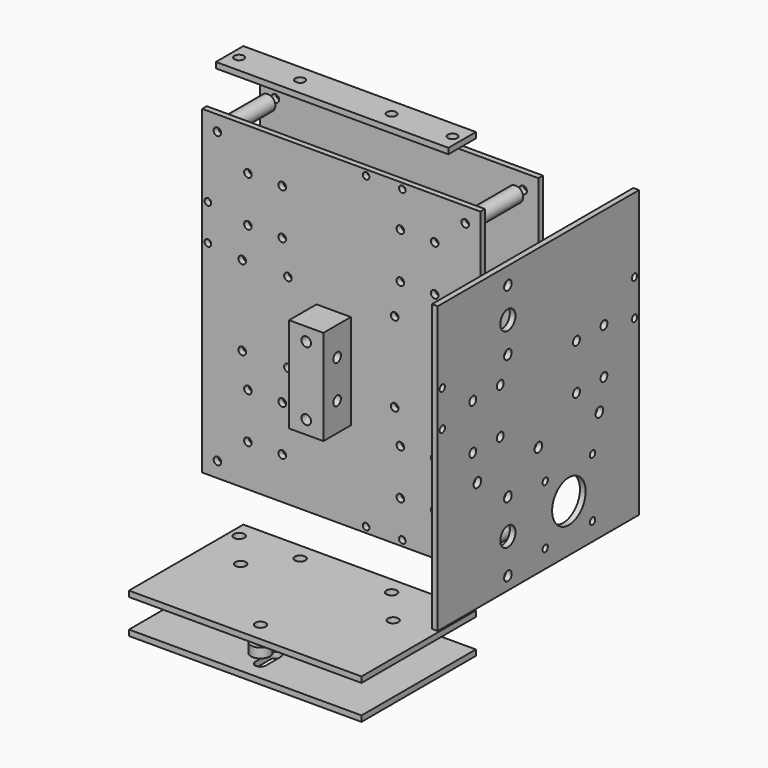
from build123d import *

# Parameters (mm, degrees)
F1_W      = 146
F1_H      = 168
F1_R      = 2
F1_R_2    = 1.75
F1_R_3    = 2.5
F2_DEPTH  = 3
F3_START  = 3
F3_DEPTH  = 18
F4_R      = 2.5
F5_DEPTH  = 86.001
F7_R      = 4
F7_R_2    = 2
F8_DEPTH  = 25
F10_W     = 146
F10_H     = 168
F10_R     = 2
F10_W_2   = 9
F10_H_2   = 20
F10_R_2   = 2.5
F10_R_3   = 1.75
F11_DEPTH = 3
F13_W     = 122
F13_H     = 18
F13_R     = 2.5
F14_DEPTH = 3
F16_W     = 122
F16_H     = 75
F16_R     = 2.75
F17_DEPTH = 3
F19_R     = 5
F19_R_2   = 2.75
F20_DEPTH = 5
F22_W     = 122
F22_H     = 75
F23_DEPTH = 3
F25_W     = 132
F25_H     = 150
F25_R     = 2.5
F25_R_2   = 5
F25_R_3   = 2.25
F25_R_4   = 1.75
F25_R_5   = 11
F26_DEPTH = 3


with BuildPart() as f2:
    # F1 (on Front) → F2 (new body)
    with BuildSketch(Plane.XZ):
        Rectangle(F1_W, F1_H)
        with Locations((-65, -76)):
            Circle(F1_R, mode=Mode.SUBTRACT)
        with Locations((-49, -62)):
            Circle(F1_R, mode=Mode.SUBTRACT)
        with Locations((-31, -62)):
            Circle(F1_R, mode=Mode.SUBTRACT)
        with Locations((-49, -38)):
            Circle(F1_R, mode=Mode.SUBTRACT)
        with Locations((-52, -21)):
            Circle(F1_R, mode=Mode.SUBTRACT)
        with Locations((-31, -38)):
            Circle(F1_R, mode=Mode.SUBTRACT)
        with Locations((-28, -21)):
            Circle(F1_R, mode=Mode.SUBTRACT)
        Polygon((-22, -21.8077818155), (-22, -1.8077818155), (-13, -1.8077818155), (-13, 13.1922181845), (5, 13.1922181845), (5, -36.8077818155), (-13, -36.8077818155), (-13, -21.8077818155), align=None, mode=Mode.SUBTRACT)
        with Locations((13, -81)):
            Circle(F1_R_2, mode=Mode.SUBTRACT)
        with Locations((32, -81)):
            Circle(F1_R_2, mode=Mode.SUBTRACT)
        with Locations((31, -62)):
            Circle(F1_R, mode=Mode.SUBTRACT)
        with Locations((65, -76)):
            Circle(F1_R, mode=Mode.SUBTRACT)
        with Locations((49, -62)):
            Circle(F1_R, mode=Mode.SUBTRACT)
        with Locations((31, -38)):
            Circle(F1_R, mode=Mode.SUBTRACT)
        with Locations((28, -21)):
            Circle(F1_R, mode=Mode.SUBTRACT)
        with Locations((49, -38)):
            Circle(F1_R, mode=Mode.SUBTRACT)
        with Locations((52, -21)):
            Circle(F1_R, mode=Mode.SUBTRACT)
        with Locations((-70, 23)):
            Circle(F1_R_2, mode=Mode.SUBTRACT)
        with Locations((-52, 21)):
            Circle(F1_R, mode=Mode.SUBTRACT)
        with Locations((-49, 38)):
            Circle(F1_R, mode=Mode.SUBTRACT)
        with Locations((-28, 21)):
            Circle(F1_R, mode=Mode.SUBTRACT)
        with Locations((-31, 38)):
            Circle(F1_R, mode=Mode.SUBTRACT)
        with Locations((-70, 42)):
            Circle(F1_R_2, mode=Mode.SUBTRACT)
        with Locations((-49, 62)):
            Circle(F1_R, mode=Mode.SUBTRACT)
        with Locations((-65, 76)):
            Circle(F1_R, mode=Mode.SUBTRACT)
        with Locations((-31, 62)):
            Circle(F1_R, mode=Mode.SUBTRACT)
        with Locations((28, 21)):
            Circle(F1_R, mode=Mode.SUBTRACT)
        with Locations((31, 38)):
            Circle(F1_R, mode=Mode.SUBTRACT)
        with Locations((52, 21)):
            Circle(F1_R, mode=Mode.SUBTRACT)
        with Locations((49, 38)):
            Circle(F1_R, mode=Mode.SUBTRACT)
        with Locations((70, 23)):
            Circle(F1_R_2, mode=Mode.SUBTRACT)
        with Locations((31, 62)):
            Circle(F1_R, mode=Mode.SUBTRACT)
        with Locations((13, 81)):
            Circle(F1_R_2, mode=Mode.SUBTRACT)
        with Locations((32, 81)):
            Circle(F1_R_2, mode=Mode.SUBTRACT)
        with Locations((49, 62)):
            Circle(F1_R, mode=Mode.SUBTRACT)
        with Locations((70, 42)):
            Circle(F1_R_2, mode=Mode.SUBTRACT)
        with Locations((65, 76)):
            Circle(F1_R, mode=Mode.SUBTRACT)
        Polygon((-13, 13.1922181845), (-13, -1.8077818155), (-13, -21.8077818155), (-13, -36.8077818155), (5, -36.8077818155), (5, 13.1922181845), align=None)
        with Locations((-4, -29.8077818155)):
            Circle(F1_R_3, mode=Mode.SUBTRACT)
        with Locations((-4, 6.1922181845)):
            Circle(F1_R_3, mode=Mode.SUBTRACT)
    extrude(amount=F2_DEPTH)


with BuildPart() as f3:
    # F1 (on Front) → F3 (new body)
    with BuildSketch(Plane.XZ.offset(F3_START)):
        Polygon((-13, 13.1922181845), (-13, -1.8077818155), (-13, -21.8077818155), (-13, -36.8077818155), (5, -36.8077818155), (5, 13.1922181845), align=None)
        with Locations((-4, -29.8077818155)):
            Circle(F1_R_3, mode=Mode.SUBTRACT)
        with Locations((-4, 6.1922181845)):
            Circle(F1_R_3, mode=Mode.SUBTRACT)
    extrude(amount=F3_DEPTH)

    # F4 (on face) → F5 (cut, through all)
    with BuildSketch(Plane(origin=(-13, 0, 0), x_dir=(0, -1, 0), z_dir=(-1, 0, 0))):
        with Locations((12, -1.8077818155)):
            Circle(F4_R)
        with Locations((12, -21.8077818155)):
            Circle(F4_R)
    extrude(amount=-F5_DEPTH, mode=Mode.SUBTRACT)


with BuildPart() as f8:
    # F7 (on offset) → F8 (new body)
    with BuildSketch(Plane(origin=(0, 5, 0), x_dir=(-1, 0, 0), z_dir=(0, 1, 0))):
        with Locations((65, 76)):
            Circle(F7_R)
        with Locations((65, 76)):
            Circle(F7_R_2, mode=Mode.SUBTRACT)
    extrude(amount=F8_DEPTH)


with BuildPart() as f8b:
    # F7 (on offset) → F8, piece 2 (new body)
    with BuildSketch(Plane(origin=(0, 5, 0), x_dir=(-1, 0, 0), z_dir=(0, 1, 0))):
        with Locations((65, -76)):
            Circle(F7_R)
        with Locations((65, -76)):
            Circle(F7_R_2, mode=Mode.SUBTRACT)
    extrude(amount=F8_DEPTH)


with BuildPart() as f8c:
    # F7 (on offset) → F8, piece 3 (new body)
    with BuildSketch(Plane(origin=(0, 5, 0), x_dir=(-1, 0, 0), z_dir=(0, 1, 0))):
        with Locations((-65, -76)):
            Circle(F7_R)
        with Locations((-65, -76)):
            Circle(F7_R_2, mode=Mode.SUBTRACT)
    extrude(amount=F8_DEPTH)


with BuildPart() as f8d:
    # F7 (on offset) → F8, piece 4 (new body)
    with BuildSketch(Plane(origin=(0, 5, 0), x_dir=(-1, 0, 0), z_dir=(0, 1, 0))):
        with Locations((-65, 76)):
            Circle(F7_R)
        with Locations((-65, 76)):
            Circle(F7_R_2, mode=Mode.SUBTRACT)
    extrude(amount=F8_DEPTH)


with BuildPart() as f11:
    # F10 (on offset) → F11 (new body)
    with BuildSketch(Plane(origin=(0, 35, 0), x_dir=(-1, 0, 0), z_dir=(0, 1, 0))):
        Rectangle(F10_W, F10_H)
        with Locations((-65, -76)):
            Circle(F10_R, mode=Mode.SUBTRACT)
        with Locations((65, -76)):
            Circle(F10_R, mode=Mode.SUBTRACT)
        with Locations((17.5, -11.8077818155)):
            Rectangle(F10_W_2, F10_H_2, mode=Mode.SUBTRACT)
        with Locations((-25, 0)):
            Circle(F10_R_2, mode=Mode.SUBTRACT)
        with Locations((-25.5, 14.5)):
            Circle(F10_R_3, mode=Mode.SUBTRACT)
        with BuildLine():
            ThreePointArc((1, 30), (-10, 19), (-21, 30))
            ThreePointArc((-21, 30), (-10, 41), (1, 30))
        make_face(mode=Mode.SUBTRACT)
        with Locations((-65, 76)):
            Circle(F10_R, mode=Mode.SUBTRACT)
        with Locations((-25.5, 45.5)):
            Circle(F10_R_3, mode=Mode.SUBTRACT)
        with Locations((5, 0)):
            Circle(F10_R_2, mode=Mode.SUBTRACT)
        with Locations((5.5, 14.5)):
            Circle(F10_R_3, mode=Mode.SUBTRACT)
        with Locations((5.5, 45.5)):
            Circle(F10_R_3, mode=Mode.SUBTRACT)
        with Locations((65, 76)):
            Circle(F10_R, mode=Mode.SUBTRACT)
    extrude(amount=F11_DEPTH)


with BuildPart() as f14:
    # F13 (on offset) → F14 (new body)
    with BuildSketch(Plane.XY.offset(109)):
        Rectangle(F13_W, F13_H)
        with Locations((-56, 0)):
            Circle(F13_R, mode=Mode.SUBTRACT)
        with Locations((-24, 0)):
            Circle(F13_R, mode=Mode.SUBTRACT)
        with Locations((24, 0)):
            Circle(F13_R, mode=Mode.SUBTRACT)
        with Locations((56, 0)):
            Circle(F13_R, mode=Mode.SUBTRACT)
    extrude(amount=F14_DEPTH)


with BuildPart() as f17:
    # F16 (on offset) → F17 (new body)
    with BuildSketch(Plane(origin=(0, 0, -109), x_dir=(1, 0, 0), z_dir=(0, 0, -1))):
        with Locations((0, 28.5)):
            Rectangle(F16_W, F16_H)
        with Locations((-56, 0)):
            Circle(F16_R, mode=Mode.SUBTRACT)
        with Locations((-24, 0)):
            Circle(F16_R, mode=Mode.SUBTRACT)
        with Locations((-40, 19)):
            Circle(F16_R, mode=Mode.SUBTRACT)
        with Locations((24, 0)):
            Circle(F16_R, mode=Mode.SUBTRACT)
        with Locations((56, 0)):
            Circle(F16_R, mode=Mode.SUBTRACT)
        with Locations((40, 19)):
            Circle(F16_R, mode=Mode.SUBTRACT)
        with Locations((0, 56)):
            Circle(F16_R, mode=Mode.SUBTRACT)
    extrude(amount=F17_DEPTH)


with BuildPart() as f20:
    # F19 (on offset) → F20 (new body)
    with BuildSketch(Plane(origin=(0, 0, -117), x_dir=(1, 0, 0), z_dir=(0, 0, -1))):
        with Locations((-40, 19)):
            Circle(F19_R)
        with Locations((-40, 19)):
            Circle(F19_R_2, mode=Mode.SUBTRACT)
    extrude(amount=F20_DEPTH)


with BuildPart() as f20b:
    # F19 (on offset) → F20, piece 2 (new body)
    with BuildSketch(Plane(origin=(0, 0, -117), x_dir=(1, 0, 0), z_dir=(0, 0, -1))):
        with Locations((0, 56)):
            Circle(F19_R)
        with Locations((0, 56)):
            Circle(F19_R_2, mode=Mode.SUBTRACT)
    extrude(amount=F20_DEPTH)


with BuildPart() as f20c:
    # F19 (on offset) → F20, piece 3 (new body)
    with BuildSketch(Plane(origin=(0, 0, -117), x_dir=(1, 0, 0), z_dir=(0, 0, -1))):
        with Locations((40, 19)):
            Circle(F19_R)
        with Locations((40, 19)):
            Circle(F19_R_2, mode=Mode.SUBTRACT)
    extrude(amount=F20_DEPTH)


with BuildPart() as f23:
    # F22 (on offset) → F23 (new body)
    with BuildSketch(Plane(origin=(0, 0, -127), x_dir=(1, 0, 0), z_dir=(0, 0, -1))):
        with Locations((0, 28.5)):
            Rectangle(F22_W, F22_H)
        with BuildLine():
            ThreePointArc((-42.75, 19), (-40, 21.75), (-37.25, 19))
            Line((-37.25, 19), (-37.25, 9))
            ThreePointArc((-37.25, 9), (-40, 6.25), (-42.75, 9))
            Line((-42.75, 9), (-42.75, 19))
        make_face(mode=Mode.SUBTRACT)
        with BuildLine():
            ThreePointArc((37.25, 19), (40, 21.75), (42.75, 19))
            Line((42.75, 19), (42.75, 9))
            ThreePointArc((42.75, 9), (40, 6.25), (37.25, 9))
            Line((37.25, 9), (37.25, 19))
        make_face(mode=Mode.SUBTRACT)
        with BuildLine():
            ThreePointArc((-2.75, 56), (0, 58.75), (2.75, 56))
            Line((2.75, 56), (2.75, 46))
            ThreePointArc((2.75, 46), (0, 43.25), (-2.75, 46))
            Line((-2.75, 46), (-2.75, 56))
        make_face(mode=Mode.SUBTRACT)
    extrude(amount=F23_DEPTH)


with BuildPart() as f26:
    # F25 (on offset) → F26 (new body)
    with BuildSketch(Plane.YZ.offset(98)):
        Rectangle(F25_W, F25_H)
        with Locations((-20, -68.25)):
            Circle(F25_R, mode=Mode.SUBTRACT)
        with Locations((-20, -50)):
            Circle(F25_R_2, mode=Mode.SUBTRACT)
        with Locations((-40, -17)):
            Circle(F25_R, mode=Mode.SUBTRACT)
        with Locations((-43, -2)):
            Circle(F25_R_3, mode=Mode.SUBTRACT)
        with Locations((-20, -31.75)):
            Circle(F25_R, mode=Mode.SUBTRACT)
        with Locations((-25, -2)):
            Circle(F25_R_3, mode=Mode.SUBTRACT)
        with Locations((4.5, -65.5)):
            Circle(F25_R_4, mode=Mode.SUBTRACT)
        with Locations((20, -50)):
            Circle(F25_R_5, mode=Mode.SUBTRACT)
        with Locations((35.5, -65.5)):
            Circle(F25_R_4, mode=Mode.SUBTRACT)
        with Locations((4.5, -34.5)):
            Circle(F25_R_4, mode=Mode.SUBTRACT)
        with Locations((0, -17)):
            Circle(F25_R, mode=Mode.SUBTRACT)
        with Locations((25, -2)):
            Circle(F25_R_3, mode=Mode.SUBTRACT)
        with Locations((35.5, -34.5)):
            Circle(F25_R_4, mode=Mode.SUBTRACT)
        with Locations((40, -17)):
            Circle(F25_R, mode=Mode.SUBTRACT)
        with Locations((43, -2)):
            Circle(F25_R_3, mode=Mode.SUBTRACT)
        with Locations((-63, 17)):
            Circle(F25_R_4, mode=Mode.SUBTRACT)
        with Locations((-63, 36)):
            Circle(F25_R_4, mode=Mode.SUBTRACT)
        with Locations((-43, 22)):
            Circle(F25_R_3, mode=Mode.SUBTRACT)
        with Locations((-25, 22)):
            Circle(F25_R_3, mode=Mode.SUBTRACT)
        with Locations((-20, 34)):
            Circle(F25_R, mode=Mode.SUBTRACT)
        with Locations((-20, 50)):
            Circle(F25_R_2, mode=Mode.SUBTRACT)
        with Locations((-20, 66)):
            Circle(F25_R, mode=Mode.SUBTRACT)
        with Locations((25, 22)):
            Circle(F25_R_3, mode=Mode.SUBTRACT)
        with Locations((63, 17)):
            Circle(F25_R_4, mode=Mode.SUBTRACT)
        with Locations((43, 22)):
            Circle(F25_R_3, mode=Mode.SUBTRACT)
        with Locations((63, 36)):
            Circle(F25_R_4, mode=Mode.SUBTRACT)
    extrude(amount=F26_DEPTH)


solid = Compound([f2.part, f3.part, f8.part, f8b.part, f8c.part, f8d.part, f11.part, f14.part, f17.part, f20.part, f20b.part, f20c.part, f23.part, f26.part])
